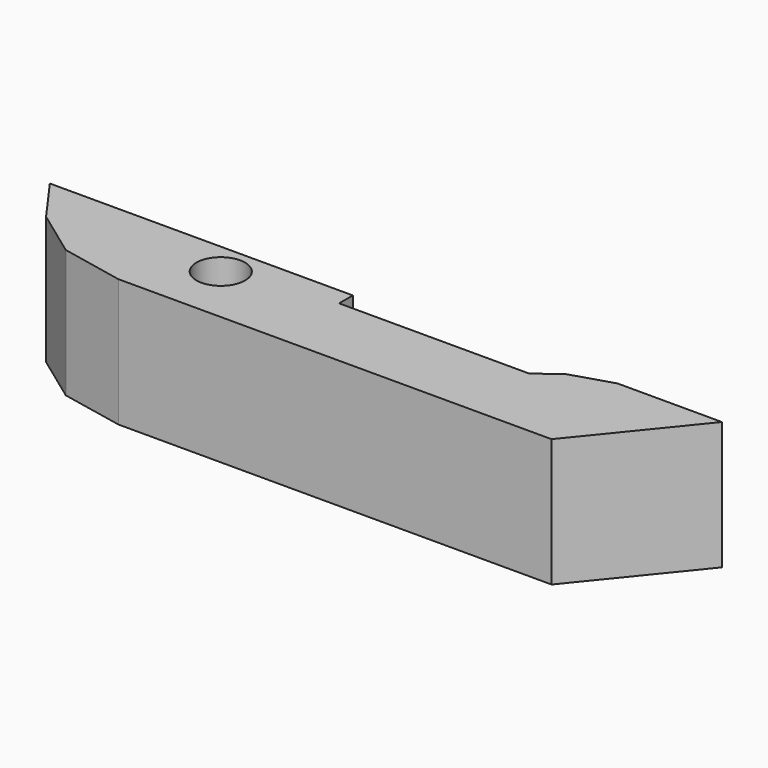
from build123d import *

# Parameters (mm, degrees)
F1_DEPTH = 25
F2_R     = 4.747339
F3_DEPTH = 25.001


with BuildPart() as f1:
    # F0 (on Top) → F1 (new body)
    with BuildSketch(Plane.XY):
        Polygon((-34.348406, -26.808511), (-23.736702, -26.808511), (-10.332447, -26.808511), (4.468086, -26.808511), (22.898939, -26.808511), (38.537234, -26.808511), (50.26596, -26.808511), (67.021281, -6.143617), (46.635643, -6.143617), (38.537234, -8.656915), (34.069151, -12.00798), (-3.07181, -12.00798), (-3.07181, -8.656915), (-62.273938, -8.656915), (-55.851065, -17.593086), (-46.635639, -24.295213), align=None)
    extrude(amount=F1_DEPTH)

    # F2 (on Top) → F3 (cut, through all)
    with BuildSketch(Plane.XY):
        with Locations((-23.736702, -15.079788)):
            Circle(F2_R)
    extrude(amount=F3_DEPTH, mode=Mode.SUBTRACT)


solid = f1.part
